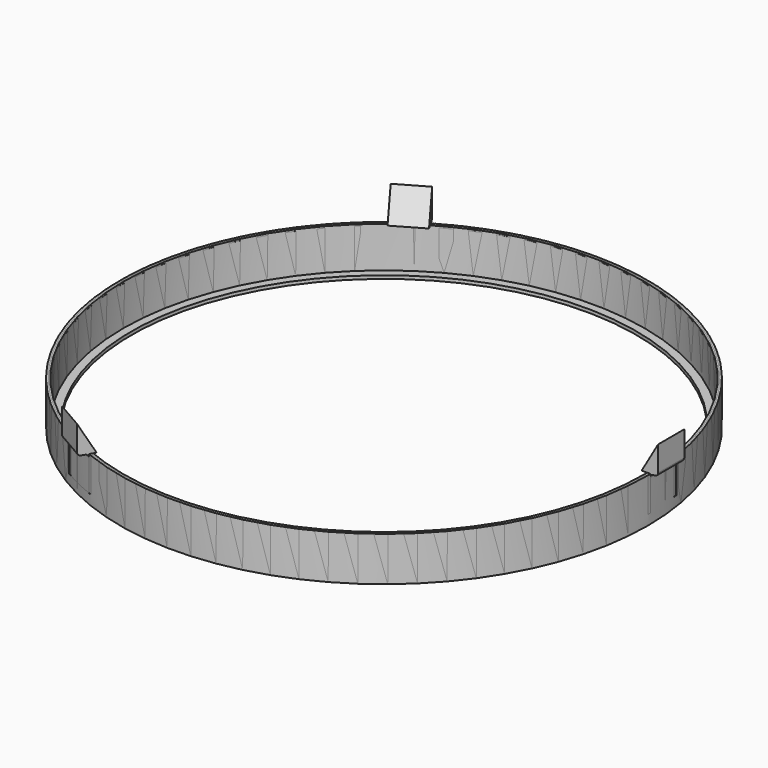
from build123d import *

# Parameters (mm, degrees)
CYLINDER_R             = 77
CYLINDER_DEPTH         = 1
CYLINDER001_R          = 79.5
CYLINDER001_DEPTH      = 12.5
CYLINDER002_R          = 80.5
CYLINDER002_DEPTH      = 13.5
BOX002_W               = 5
BOX002_H               = 10
BOX002_DEPTH           = 12
BOX003_W               = 5
BOX003_H               = 10
BOX003_DEPTH           = 12
BOX003_PLACEMENT_ANGLE = 30
CYLINDER003_R          = 79.5
CYLINDER003_DEPTH      = 13.5
CYLINDER004_R          = 80.5
CYLINDER004_DEPTH      = 13.5
BOX001_W               = 5
BOX001_H               = 10
BOX001_DEPTH           = 12
ARRAY001_COUNT         = 3
BOX_W                  = 5
BOX_H                  = 12
BOX_DEPTH              = 12
ARRAY_COUNT            = 3
CYLINDER005_R          = 77
CYLINDER005_DEPTH      = 1
CYLINDER006_R          = 79.5
CYLINDER006_DEPTH      = 12.5
CYLINDER007_R          = 80.5
CYLINDER007_DEPTH      = 13.5
FILLET_R               = 0.5
FILLET001_R            = 1


with BuildPart() as cylinder:
    # Cylinder → Cylinder (new body)
    with BuildSketch(Plane.XY):
        Circle(CYLINDER_R)
    extrude(amount=CYLINDER_DEPTH)


with BuildPart() as fusion:
    # Cylinder001 → Cylinder001 (new body)
    with BuildSketch(Plane.XY.offset(1)):
        Circle(CYLINDER001_R)
    extrude(amount=CYLINDER001_DEPTH)

    # Fusion: union Cylinder
    add(cylinder.part)


with BuildPart() as obj1:
    # Cylinder002 → Cylinder002 (new body)
    with BuildSketch(Plane.XY):
        Circle(CYLINDER002_R)
    extrude(amount=CYLINDER002_DEPTH)

    # Cut: cut Fusion
    add(fusion.part, mode=Mode.SUBTRACT)


with BuildPart() as cube002:
    # Box002 → Box002 (new body)
    with BuildSketch(Plane(origin=(77.8, 1, 13.5), x_dir=(1, 0, 0), z_dir=(0, 0, 1))):
        with Locations((2.5, 5)):
            Rectangle(BOX002_W, BOX002_H)
    extrude(amount=BOX002_DEPTH)


with BuildPart() as common001:
    # Box003 → Box003 (new body)
    with BuildSketch(Plane.XY):
        with Locations((2.5, 5)):
            Rectangle(BOX003_W, BOX003_H)
    extrude(amount=BOX003_DEPTH)


with BuildPart() as common001_1:
    # Box003 placement: moved
    add(common001.part.moved(Location((77.8, 1, 13.5))).rotate(Axis((77.8, 1, 13.5), (0, 1, 0)), BOX003_PLACEMENT_ANGLE))

    # Common001: intersect Cube002
    add(cube002.part, mode=Mode.INTERSECT)


with BuildPart() as cylinder003:
    # Cylinder003 → Cylinder003 (new body)
    with BuildSketch(Plane.XY):
        Circle(CYLINDER003_R)
    extrude(amount=CYLINDER003_DEPTH)


with BuildPart() as cut001:
    # Cylinder004 → Cylinder004 (new body)
    with BuildSketch(Plane.XY):
        Circle(CYLINDER004_R)
    extrude(amount=CYLINDER004_DEPTH)

    # Cut001: cut Cylinder003
    add(cylinder003.part, mode=Mode.SUBTRACT)


with BuildPart() as array001:
    # Box001 → Box001 (new body)
    with BuildSketch(Plane(origin=(77.8, 1, 3), x_dir=(1, 0, 0), z_dir=(0, 0, 1))):
        with Locations((2.5, 5)):
            Rectangle(BOX001_W, BOX001_H)
    extrude(amount=BOX001_DEPTH)

    # Common: intersect Cut001
    add(cut001.part, mode=Mode.INTERSECT)

    # Fusion001: union Common001
    add(common001_1.part)

    # Array001: Array001 ×3 about axis
    array001_axis = Axis((0, 0, 0), (0, 0, 1))


with BuildPart() as array001_1:
    add(array001.part)
    for i in range(1, ARRAY001_COUNT):
        add(array001.part.rotate(array001_axis, i * 360 / ARRAY001_COUNT))


with BuildPart() as array:
    # Box → Box (new body)
    with BuildSketch(Plane(origin=(77, 0, 3), x_dir=(1, 0, 0), z_dir=(0, 0, 1))):
        with Locations((2.5, 6)):
            Rectangle(BOX_W, BOX_H)
    extrude(amount=BOX_DEPTH)

    # Array: Array ×3 about axis
    array_axis = Axis((0, 0, 0), (0, 0, 1))


with BuildPart() as array_1:
    add(array.part)
    for i in range(1, ARRAY_COUNT):
        add(array.part.rotate(array_axis, i * 360 / ARRAY_COUNT))


with BuildPart() as cylinder005:
    # Cylinder005 → Cylinder005 (new body)
    with BuildSketch(Plane.XY):
        Circle(CYLINDER005_R)
    extrude(amount=CYLINDER005_DEPTH)


with BuildPart() as fusion002:
    # Cylinder006 → Cylinder006 (new body)
    with BuildSketch(Plane.XY.offset(1)):
        Circle(CYLINDER006_R)
    extrude(amount=CYLINDER006_DEPTH)

    # Fusion002: union Cylinder005
    add(cylinder005.part)


with BuildPart() as fillet001:
    # Cylinder007 → Cylinder007 (new body)
    with BuildSketch(Plane.XY):
        Circle(CYLINDER007_R)
    extrude(amount=CYLINDER007_DEPTH)

    # Cut002: cut Fusion002
    add(fusion002.part, mode=Mode.SUBTRACT)

    # Cut003: cut Array
    add(array_1.part, mode=Mode.SUBTRACT)

    # Fusion003: union Array001
    add(array001_1.part)

    # Fillet
    fillet_edges = [fillet001.edges().sort_by_distance(p)[0] for p in [
        (44.847077, -65.642895, 13.5),
        (-79.271953, -6.017261, 13.5),
        (34.424876, 71.660156, 13.5),
    ]]
    fillet(fillet_edges, radius=FILLET_R)

    # Fillet001
    fillet001_edges = [fillet001.edges().sort_by_distance(p)[0] for p in [
        (-34.931345, -72.52621, 13.5),
        (-45.343868, 66.514537, 13.5),
        (80.275213, 6.011673, 13.5),
        (-36.203848, -74.706903, 13.5),
        (-46.596152, 68.706903, 13.5),
        (82.8, 6, 13.5),
    ]]
    fillet(fillet001_edges, radius=FILLET001_R)


solid = Compound([obj1.part, fillet001.part])
